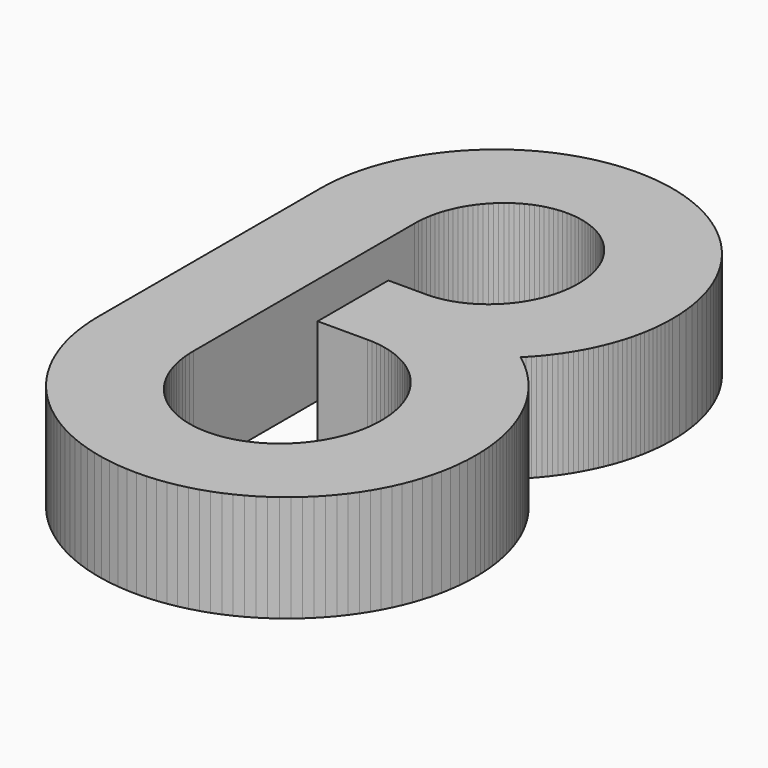
from build123d import *

# Parameters (mm, degrees)
F1_DEPTH = 12.7


with BuildPart() as f1:
    # F0 (on Top) → F1 (new body)
    with BuildSketch(Plane.XY):
        Polygon((13.818972, 1.912214), (13.308051, 2.301824), (13.661746, 2.661717), (14.006754, 3.030017), (14.342897, 3.406521), (14.670024, 3.791102), (14.987981, 4.183583), (15.296591, 4.583811), (15.595676, 4.991557), (15.885084, 5.406746), (16.164636, 5.829122), (16.434181, 6.258585), (16.69354, 6.694957), (16.942537, 7.138035), (17.181017, 7.587691), (17.40883, 8.043748), (17.625771, 8.506054), (17.831689, 8.974404), (18.026431, 9.448648), (18.209819, 9.928657), (18.381675, 10.414203), (18.541848, 10.905185), (18.690184, 11.401374), (18.82648, 11.902643), (18.950584, 12.408814), (19.062344, 12.919735), (19.161582, 13.435203), (19.24812, 13.95509), (19.321805, 14.479219), (19.382486, 15.007412), (19.429959, 15.539517), (19.464071, 16.075381), (19.48467, 16.6148), (19.491579, 17.157624), (19.464325, 18.23532), (19.383451, 19.298869), (19.250254, 20.346949), (19.066104, 21.37824), (18.832246, 22.391446), (18.550052, 23.385247), (18.220792, 24.358321), (17.845811, 25.309347), (17.426432, 26.237006), (16.963923, 27.140002), (16.459657, 28.017013), (15.914929, 28.866719), (15.331059, 29.687799), (14.709343, 30.478933), (14.051102, 31.2388), (13.357682, 31.966129), (12.630379, 32.659549), (11.870487, 33.31779), (11.079353, 33.939505), (10.258273, 34.523375), (9.408566, 35.068104), (8.531555, 35.57237), (7.62856, 36.034853), (6.700901, 36.454258), (5.749874, 36.829213), (4.7768, 37.158473), (3.783, 37.440692), (2.769794, 37.674525), (1.738503, 37.8587), (0.690423, 37.991872), (-0.373126, 38.072746), (-1.450823, 38.1), (-2.528519, 38.072746), (-3.592043, 37.991872), (-4.640123, 37.8587), (-5.671439, 37.674525), (-6.684645, 37.440692), (-7.678445, 37.158473), (-8.651494, 36.829213), (-9.602521, 36.454258), (-10.530205, 36.034853), (-11.4332, 35.57237), (-12.310212, 35.068104), (-13.159892, 34.523375), (-13.980973, 33.939505), (-14.772107, 33.31779), (-15.531998, 32.659549), (-16.259302, 31.966129), (-16.952747, 31.2388), (-17.610963, 30.478933), (-18.232679, 29.687799), (-18.816574, 28.866719), (-19.361302, 28.017013), (-19.865569, 27.140002), (-20.328052, 26.237006), (-20.747431, 25.309347), (-21.122411, 24.358321), (-21.451672, 23.385247), (-21.733866, 22.391446), (-21.967723, 21.37824), (-22.151899, 20.346949), (-22.285071, 19.298869), (-22.365945, 18.23532), (-22.393199, 17.157624), (-22.393199, 16.512718), (-22.393199, 15.795041), (-22.393199, 15.009393), (-22.393199, 14.160576), (-22.393199, 13.25339), (-22.393199, 12.292686), (-22.393199, 11.283264), (-22.393199, 10.229952), (-22.393199, 9.137523), (-22.393199, 8.010804), (-22.393199, 6.854647), (-22.393199, 5.673801), (-22.393199, 4.473143), (-22.393199, 3.257448), (-22.393199, 2.031568), (-22.393199, 0.800252), (-22.393199, -0.431622), (-22.393199, -1.65928), (-22.393199, -2.877896), (-22.393199, -4.082644), (-22.393199, -5.268747), (-22.393199, -6.431331), (-22.393199, -7.565644), (-22.393199, -8.666836), (-22.393199, -9.730105), (-22.393199, -10.750652), (-22.393199, -11.723624), (-22.393199, -12.644247), (-22.393199, -13.507695), (-22.393199, -14.309141), (-22.393199, -15.04376), (-22.393199, -15.706776), (-22.364065, -16.859148), (-22.277578, -17.996357), (-22.135186, -19.117056), (-21.938259, -20.219797), (-21.688196, -21.303209), (-21.386444, -22.365843), (-21.034375, -23.406329), (-20.633436, -24.423243), (-20.184974, -25.415164), (-19.690461, -26.380719), (-19.15127, -27.318487), (-18.568797, -28.227045), (-17.944465, -29.104996), (-17.279671, -29.950943), (-16.575837, -30.763489), (-15.834385, -31.541187), (-15.056688, -32.282638), (-14.244142, -32.986472), (-13.398195, -33.651266), (-12.520244, -34.275598), (-11.611686, -34.858071), (-10.673918, -35.397262), (-9.708363, -35.891775), (-8.716442, -36.340237), (-7.699527, -36.741176), (-6.659042, -37.093246), (-5.596407, -37.394998), (-4.512996, -37.645061), (-3.410255, -37.841987), (-2.289556, -37.984379), (-1.152347, -38.070866), (0, -38.1), (1.152373, -38.070866), (2.289581, -37.984379), (3.41028, -37.841987), (4.513021, -37.645061), (5.596433, -37.394998), (6.659067, -37.093246), (7.699553, -36.741176), (8.716467, -36.340237), (9.708388, -35.891775), (10.673944, -35.397262), (11.611712, -34.858071), (12.52027, -34.275598), (13.398221, -33.651266), (14.244168, -32.986472), (15.056714, -32.282638), (15.834411, -31.541187), (16.575862, -30.763489), (17.279696, -29.950943), (17.94449, -29.104996), (18.568822, -28.227045), (19.151295, -27.318487), (19.690486, -26.380719), (20.184999, -25.415164), (20.633461, -24.423243), (21.0344, -23.406329), (21.38647, -22.365843), (21.688222, -21.303209), (21.938285, -20.219797), (22.135211, -19.117056), (22.277603, -17.996357), (22.36409, -16.859148), (22.393224, -15.706776), (22.38281, -15.01714), (22.351746, -14.332712), (22.300336, -13.653745), (22.228886, -12.980594), (22.137675, -12.313539), (22.027058, -11.652885), (21.897264, -10.998911), (21.748648, -10.351948), (21.581466, -9.712249), (21.396046, -9.080144), (21.192693, -8.455939), (20.971688, -7.839913), (20.73336, -7.232371), (20.477963, -6.633616), (20.205827, -6.04393), (19.917232, -5.463616), (19.612508, -4.893005), (19.291935, -4.332351), (18.955817, -3.781984), (18.604459, -3.242183), (18.23814, -2.713279), (17.857191, -2.195525), (17.46189, -1.689252), (17.052544, -1.19474), (16.629431, -0.712292), (16.192906, -0.242214), (15.743199, 0.215189), (15.280665, 0.659638), (14.805584, 1.090828), (14.318259, 1.508455), align=None)
        Polygon((0.574573, -27.581784), (0, -27.597278), (-0.574548, -27.581784), (-1.141552, -27.535886), (-1.700327, -27.46027), (-2.250135, -27.355698), (-2.790317, -27.222933), (-3.320136, -27.062684), (-3.838905, -26.875765), (-4.34594, -26.662863), (-4.840503, -26.424738), (-5.32191, -26.162152), (-5.789473, -25.875844), (-6.242482, -25.566548), (-6.680225, -25.235052), (-7.102018, -24.882069), (-7.507122, -24.508333), (-7.894879, -24.114633), (-8.264576, -23.70168), (-8.615502, -23.270235), (-8.946947, -22.821036), (-9.258224, -22.35487), (-9.548647, -21.872423), (-9.817481, -21.374481), (-10.064064, -20.861807), (-10.287635, -20.335088), (-10.487558, -19.795134), (-10.663098, -19.242659), (-10.813542, -18.678398), (-10.938231, -18.103139), (-11.036402, -17.517593), (-11.10742, -16.922521), (-11.150524, -16.318662), (-11.165053, -15.706776), (-11.165053, -15.416759), (-11.165053, -14.986965), (-11.165053, -14.426667), (-11.165053, -13.745032), (-11.165053, -12.951308), (-11.165053, -12.054713), (-11.165053, -11.064469), (-11.165053, -9.989795), (-11.165053, -8.839911), (-11.165053, -7.624039), (-11.165053, -6.351397), (-11.165053, -5.031207), (-11.165053, -3.672688), (-11.165053, -2.28506), (-11.165053, -0.87757), (-11.165053, 0.540614), (-11.165053, 1.96022), (-11.165053, 3.372053), (-11.165053, 4.766894), (-11.165053, 6.135522), (-11.165053, 7.468692), (-11.165053, 8.757234), (-11.165053, 9.991877), (-11.165053, 11.163402), (-11.165053, 12.262637), (-11.165053, 13.280314), (-11.165053, 14.207211), (-11.165053, 15.034158), (-11.165053, 15.751886), (-11.165053, 16.351174), (-11.165053, 16.822826), (-11.165053, 17.157624), (-11.152403, 17.696459), (-11.114913, 18.228234), (-11.053115, 18.752287), (-10.967695, 19.267932), (-10.859211, 19.774535), (-10.728325, 20.271435), (-10.575595, 20.757972), (-10.401656, 21.233486), (-10.207117, 21.697315), (-9.992589, 22.1488), (-9.75868, 22.587306), (-9.506001, 23.012146), (-9.235186, 23.422686), (-8.946794, 23.818266), (-8.641461, 24.198199), (-8.319821, 24.561876), (-7.982458, 24.908586), (-7.629982, 25.237694), (-7.263003, 25.548539), (-6.88213, 25.840487), (-6.487998, 26.112851), (-6.081192, 26.364997), (-5.662346, 26.596238), (-5.232044, 26.805941), (-4.790897, 26.993418), (-4.339539, 27.158036), (-3.878555, 27.299158), (-3.408578, 27.416074), (-2.930195, 27.508149), (-2.444039, 27.574748), (-1.95072, 27.615185), (-1.450823, 27.628799), (-0.950925, 27.615185), (-0.457581, 27.574748), (0.028575, 27.508149), (0.506933, 27.416074), (0.976909, 27.299158), (1.437894, 27.158036), (1.889252, 26.993418), (2.330399, 26.805941), (2.760701, 26.596238), (3.179572, 26.364997), (3.586378, 26.112851), (3.98051, 25.840487), (4.361358, 25.548539), (4.728337, 25.237694), (5.080813, 24.908586), (5.418176, 24.561876), (5.739841, 24.198199), (6.045149, 23.818266), (6.333541, 23.422686), (6.604381, 23.012146), (6.85706, 22.587306), (7.090969, 22.1488), (7.305497, 21.697315), (7.500036, 21.233486), (7.673975, 20.757972), (7.82668, 20.271435), (7.957591, 19.774535), (8.066075, 19.267932), (8.151495, 18.752287), (8.213268, 18.228234), (8.250784, 17.696459), (8.263433, 17.157624), (8.250784, 16.618763), (8.213268, 16.086988), (8.151495, 15.562961), (8.066075, 15.047316), (7.957591, 14.540713), (7.82668, 14.043812), (7.673975, 13.557275), (7.500036, 13.081762), (7.305497, 12.617933), (7.090969, 12.166422), (6.85706, 11.727917), (6.604381, 11.303076), (6.333541, 10.892536), (6.045149, 10.496956), (5.739841, 10.117023), (5.418176, 9.753371), (5.080813, 9.406661), (4.728337, 9.077528), (4.361358, 8.766683), (3.98051, 8.474735), (3.586378, 8.202371), (3.179572, 7.950251), (2.760701, 7.719009), (2.330399, 7.509307), (1.889252, 7.321804), (1.437894, 7.157187), (0.976909, 7.01609), (0.506933, 6.899173), (0.028575, 6.807073), (-0.457581, 6.740474), (-0.950925, 6.700037), (-1.450823, 6.686423), (-1.496162, 6.686423), (-1.561871, 6.686423), (-1.646504, 6.686423), (-1.748612, 6.686423), (-1.866798, 6.686423), (-1.999615, 6.686423), (-2.14564, 6.686423), (-2.30345, 6.686423), (-2.471598, 6.686423), (-2.648661, 6.686423), (-2.833218, 6.686423), (-3.023845, 6.686423), (-3.219094, 6.686423), (-3.417545, 6.686423), (-3.617773, 6.686423), (-3.818357, 6.686423), (-4.017848, 6.686423), (-4.214825, 6.686423), (-4.40784, 6.686423), (-4.59552, 6.686423), (-4.776368, 6.686423), (-4.949012, 6.686423), (-5.111979, 6.686423), (-5.263871, 6.686423), (-5.403215, 6.686423), (-5.52864, 6.686423), (-5.638698, 6.686423), (-5.731942, 6.686423), (-5.806948, 6.686423), (-5.862295, 6.686423), (-5.896559, 6.686423), (-5.908294, 6.686423), (-5.908294, 6.358204), (-5.908294, 6.030011), (-5.908294, 5.701792), (-5.908294, 5.373573), (-5.908294, 5.04538), (-5.908294, 4.717161), (-5.908294, 4.388942), (-5.908294, 4.060749), (-5.908294, 3.73253), (-5.908294, 3.404311), (-5.908294, 3.076118), (-5.908294, 2.747899), (-5.908294, 2.41968), (-5.908294, 2.091487), (-5.908294, 1.763268), (-5.908294, 1.435049), (-5.908294, 1.106856), (-5.908294, 0.778637), (-5.908294, 0.450418), (-5.908294, 0.122225), (-5.908294, -0.205994), (-5.908294, -0.534213), (-5.908294, -0.862406), (-5.908294, -1.190625), (-5.908294, -1.518844), (-5.908294, -1.847037), (-5.908294, -2.175256), (-5.908294, -2.503475), (-5.908294, -2.831668), (-5.908294, -3.159887), (-5.908294, -3.488106), (-5.908294, -3.816299), (-5.893816, -3.816299), (-5.85155, -3.816299), (-5.783174, -3.816299), (-5.690337, -3.816299), (-5.574741, -3.816299), (-5.438089, -3.816299), (-5.282032, -3.816299), (-5.10827, -3.816299), (-4.918481, -3.816299), (-4.714342, -3.816299), (-4.497527, -3.816299), (-4.269765, -3.816299), (-4.032682, -3.816299), (-3.788004, -3.816299), (-3.537382, -3.816299), (-3.282518, -3.816299), (-3.025089, -3.816299), (-2.766771, -3.816299), (-2.509266, -3.816299), (-2.254225, -3.816299), (-2.003374, -3.816299), (-1.75834, -3.816299), (-1.520876, -3.816299), (-1.292581, -3.816299), (-1.075207, -3.816299), (-0.870407, -3.816299), (-0.679882, -3.816299), (-0.505282, -3.816299), (-0.34831, -3.816299), (-0.210642, -3.816299), (-0.09398, -3.816299), (0, -3.816299), (0.574573, -3.831768), (1.141578, -3.877691), (1.700352, -3.953307), (2.250161, -4.057879), (2.790342, -4.190644), (3.320161, -4.350868), (3.838931, -4.537812), (4.345965, -4.750714), (4.840529, -4.988839), (5.321935, -5.251425), (5.789498, -5.537733), (6.242507, -5.847004), (6.680251, -6.178525), (7.102043, -6.531508), (7.507148, -6.905244), (7.894904, -7.298944), (8.264601, -7.711897), (8.615528, -8.143342), (8.946972, -8.592515), (9.258249, -9.058707), (9.548673, -9.541129), (9.817506, -10.039071), (10.06409, -10.55177), (10.28766, -11.078464), (10.487584, -11.618443), (10.663123, -12.170918), (10.813567, -12.735154), (10.938256, -13.310438), (11.036427, -13.895984), (11.107445, -14.491056), (11.150549, -15.094915), (11.165078, -15.706776), (11.150549, -16.318662), (11.107445, -16.922521), (11.036427, -17.517593), (10.938256, -18.103139), (10.813567, -18.678398), (10.663123, -19.242659), (10.487584, -19.795134), (10.28766, -20.335088), (10.06409, -20.861807), (9.817506, -21.374481), (9.548673, -21.872423), (9.258249, -22.35487), (8.946972, -22.821036), (8.615528, -23.270235), (8.264601, -23.70168), (7.894904, -24.114633), (7.507148, -24.508333), (7.102043, -24.882069), (6.680251, -25.235052), (6.242507, -25.566548), (5.789498, -25.875844), (5.321935, -26.162152), (4.840529, -26.424738), (4.345965, -26.662863), (3.838931, -26.875765), (3.320161, -27.062684), (2.790342, -27.222933), (2.250161, -27.355698), (1.700352, -27.46027), (1.141578, -27.535886), align=None, mode=Mode.SUBTRACT)
    extrude(amount=F1_DEPTH)


solid = f1.part
